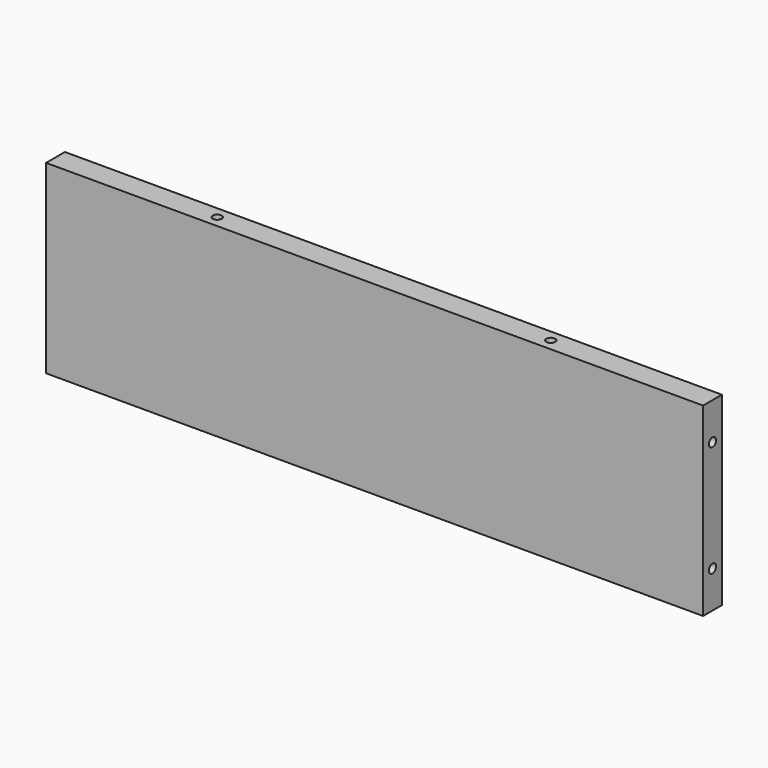
from build123d import *

# Parameters (mm, degrees)
F0_W           = 177.3
F0_H           = 50
F1_DEPTH       = 3.175
F3_D           = 2.4
F3_DEPTH       = 12
F3_TIP         = 0.7210327428
F6_D           = 2.4
F6_DEPTH       = 12
F6_TIP         = 0.7210327428
F6_ON_F4_D     = 2.4
F6_ON_F4_DEPTH = 12
F6_ON_F4_TIP   = 0.7210327428


with BuildPart() as f1:
    # F0 (on Front) → F1 (new body, symmetric)
    with BuildSketch(Plane.XZ):
        Rectangle(F0_W, F0_H)
    extrude(amount=F1_DEPTH, both=True)

    # F3
    with Locations(Plane.XY.offset(25)):
        with Locations((-45, 0), (45, 0)):
            Hole(F3_D / 2, depth=F3_DEPTH)
            with Locations((0, 0, -(F3_DEPTH + F3_TIP / 2))):  # 118° drill point
                Cone(0, F3_D / 2, F3_TIP, mode=Mode.SUBTRACT)

    # F6
    with Locations(Plane(origin=(-88.65, 0, 0), x_dir=(0, -1, 0), z_dir=(-1, 0, 0))):
        with Locations((0, 15), (0, -15)):
            Hole(F6_D / 2, depth=F6_DEPTH)
            with Locations((0, 0, -(F6_DEPTH + F6_TIP / 2))):  # 118° drill point
                Cone(0, F6_D / 2, F6_TIP, mode=Mode.SUBTRACT)

    # F6 on F4
    with Locations(Plane.YZ.offset(88.65)):
        with Locations((0, 15), (0, -15)):
            Hole(F6_ON_F4_D / 2, depth=F6_ON_F4_DEPTH)
            with Locations((0, 0, -(F6_ON_F4_DEPTH + F6_ON_F4_TIP / 2))):  # 118° drill point
                Cone(0, F6_ON_F4_D / 2, F6_ON_F4_TIP, mode=Mode.SUBTRACT)


solid = f1.part
